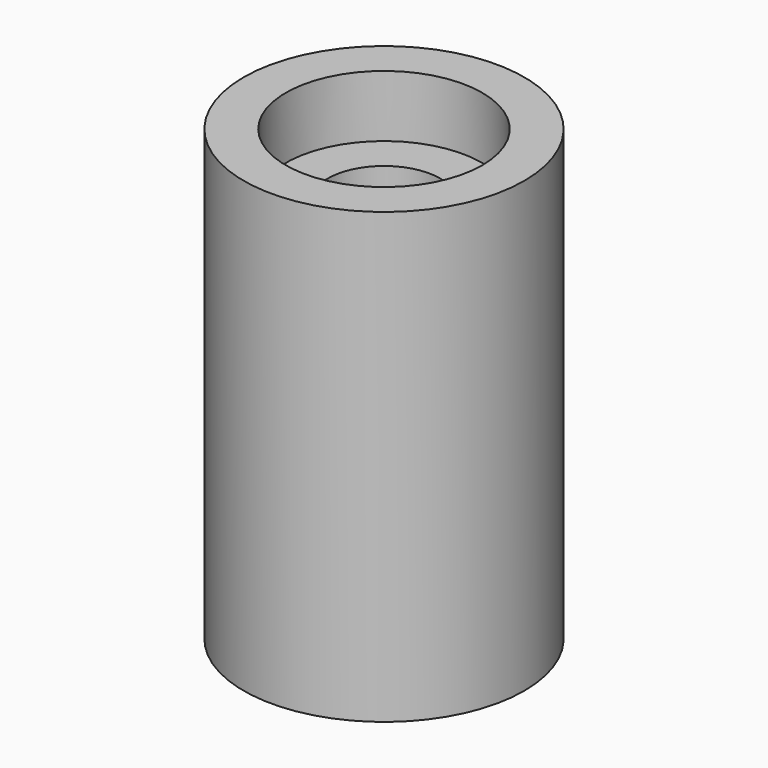
from build123d import *

# Parameters (mm, degrees)
F0_R     = 25
F1_DEPTH = 80
F2_R     = 17.5
F3_DEPTH = 11
F4_R     = 17.5
F5_DEPTH = 11
F6_R     = 10
F7_DEPTH = 100


with BuildPart() as f1:
    # F0 (on Top) → F1 (new body)
    with BuildSketch(Plane.XY):
        Circle(F0_R)
    extrude(amount=F1_DEPTH)

    # F2 (on face) → F3 (cut)
    with BuildSketch(Plane.XY.offset(80)):
        Circle(F2_R)
    extrude(amount=-F3_DEPTH, mode=Mode.SUBTRACT)

    # F4 (on face) → F5 (cut)
    with BuildSketch(Plane(origin=(0, 0, 0), x_dir=(1, 0, 0), z_dir=(0, 0, -1))):
        Circle(F4_R)
    extrude(amount=-F5_DEPTH, mode=Mode.SUBTRACT)

    # F6 (on face) → F7 (cut)
    with BuildSketch(Plane(origin=(0, 0, 11), x_dir=(1, 0, 0), z_dir=(0, 0, -1))):
        Circle(F6_R)
    extrude(amount=-F7_DEPTH, mode=Mode.SUBTRACT)


solid = f1.part
